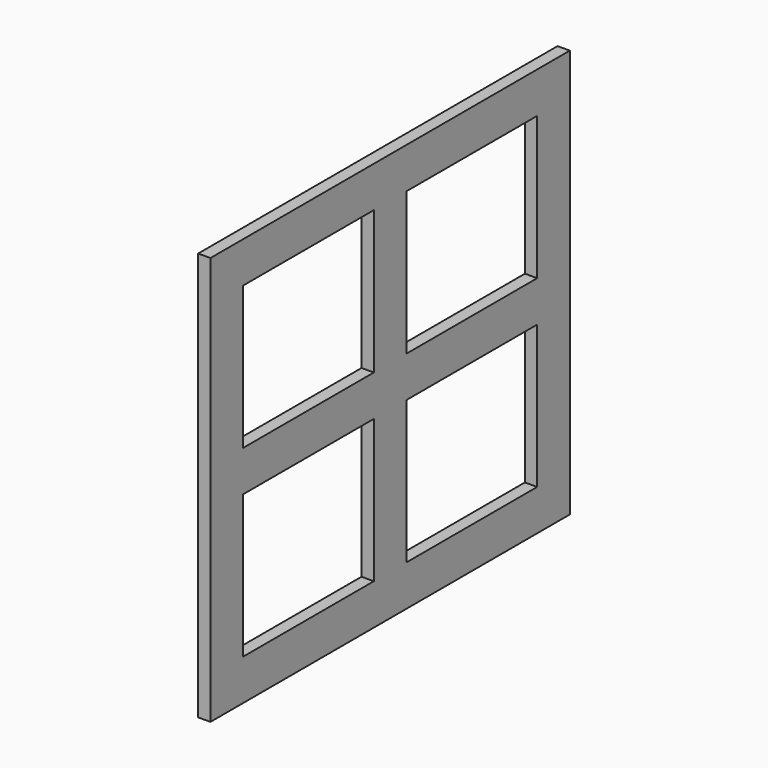
from build123d import *

# Parameters (mm, degrees)
F0_W     = 4
F0_H     = 3.5
F1_DEPTH = 0.3


with BuildPart() as f1:
    # F0 (on Right) → F1 (new body)
    with BuildSketch(Plane.YZ):
        Polygon((-75.175237, 25.629358), (-80.175237, 25.629358), (-80.175237, 21.129358), (-80.175237, 20.129358), (-80.175237, 15.629358), (-75.175237, 15.629358), (-74.175237, 15.629358), (-69.175237, 15.629358), (-69.175237, 20.129358), (-69.175237, 21.129358), (-69.175237, 25.629358), (-74.175237, 25.629358), align=None)
        with Locations((-77.175237, 18.379358)):
            Rectangle(F0_W, F0_H, mode=Mode.SUBTRACT)
        with Locations((-72.175237, 18.379358)):
            Rectangle(F0_W, F0_H, mode=Mode.SUBTRACT)
        with Locations((-77.175237, 22.879358)):
            Rectangle(F0_W, F0_H, mode=Mode.SUBTRACT)
        with Locations((-72.175237, 22.879358)):
            Rectangle(F0_W, F0_H, mode=Mode.SUBTRACT)
    extrude(amount=F1_DEPTH)


solid = f1.part
